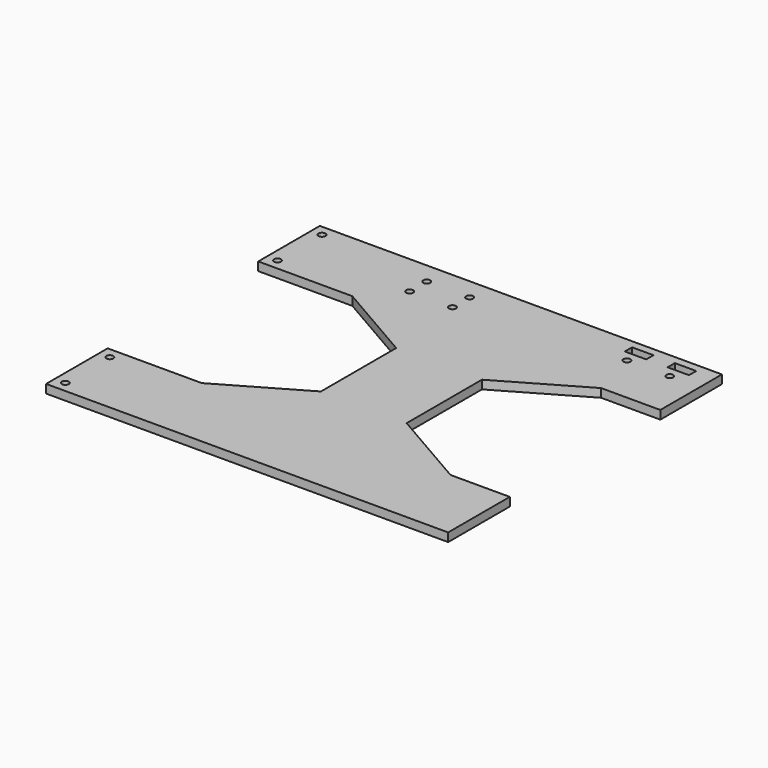
from build123d import *

# Parameters (mm, degrees)
PAD_DEPTH       = 4
SKETCH001_R     = 1.625
SKETCH001_W     = 10
SKETCH001_H     = 4.25
POCKET_DEPTH    = 4.001
SKETCH002_R     = 1.625
POCKET001_DEPTH = 4.001


with BuildPart() as part:
    # Sketch → Pad (new body)
    with BuildSketch(Plane.XY):
        Polygon((94, 80), (94, 44), (66.29, 44), (28.184882, 22), (28.184882, -22), (66.29, -44), (94, -44), (94, -80), (-94, -80), (-94, -44), (-50, -44), (-11.894938, -21.999968), (-11.894957, 22), (-50.000037, 44), (-94, 44), (-94, 80), align=None)
    extrude(amount=PAD_DEPTH)

    # Sketch001 (on Face18 of Pad) → Pocket (cut, through all)
    with BuildSketch(Plane.XY.offset(4)):
        with Locations((-36, 70)):
            Circle(SKETCH001_R)
        with Locations((-16, 70)):
            Circle(SKETCH001_R)
        with Locations((-16, 60)):
            Circle(SKETCH001_R)
        with Locations((-36, 60)):
            Circle(SKETCH001_R)
        with Locations((60, 67)):
            Circle(SKETCH001_R)
        with Locations((80, 67)):
            Circle(SKETCH001_R)
        with Locations((60, 74.125)):
            Rectangle(SKETCH001_W, SKETCH001_H)
        with Locations((80, 74.125)):
            Rectangle(SKETCH001_W, SKETCH001_H)
    extrude(amount=-POCKET_DEPTH, mode=Mode.SUBTRACT)

    # Sketch002 (on Face5 of Pocket) → Pocket001 (cut, through all)
    with BuildSketch(Plane.XY.offset(4)):
        with Locations((-89, 75)):
            Circle(SKETCH002_R)
        with Locations((-89, 49)):
            Circle(SKETCH002_R)
        with Locations((-89, -49)):
            Circle(SKETCH002_R)
        with Locations((-89, -75)):
            Circle(SKETCH002_R)
    extrude(amount=-POCKET001_DEPTH, mode=Mode.SUBTRACT)


solid = part.part
